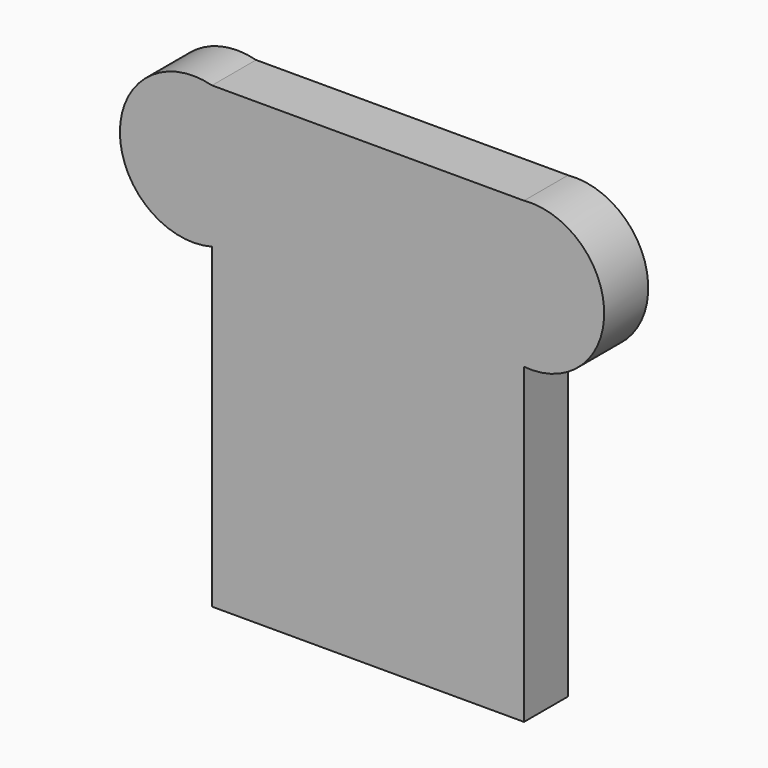
from build123d import *

# Parameters (mm, degrees)
F1_DEPTH = 3


with BuildPart() as f1:
    # F0 (on Front) → F1 (new body)
    with BuildSketch(Plane.XZ):
        with BuildLine():
            ThreePointArc((-2.900381, 19.007138), (-7.917083, 15.138505), (-2.900381, 11.269873))
            Line((-2.900381, 11.269873), (-2.900381, -5.992862))
            Line((-2.900381, -5.992862), (14.099619, -5.992862))
            Line((14.099619, -5.992862), (14.099619, 11.040998))
            ThreePointArc((14.099619, 11.040998), (18.467255, 15.024068), (14.099619, 19.007138))
            Line((14.099619, 19.007138), (-2.900381, 19.007138))
        make_face()
    extrude(amount=F1_DEPTH)


solid = f1.part
